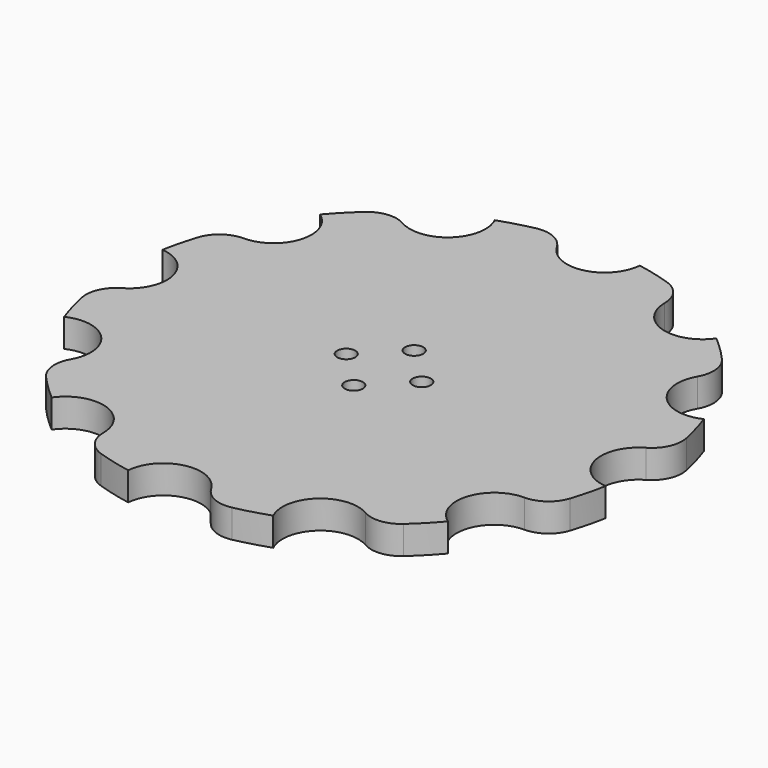
from build123d import *

# Parameters (mm, degrees)
F0_R     = 1.524
F1_DEPTH = 4.7625


with BuildPart() as f1:
    # F0 (on Top) → F1 (new body)
    with BuildSketch(Plane.XY):
        with BuildLine():
            ThreePointArc((-3.772469, 41.053632), (-6.104756, 43.153333), (-9.225692, 43.482055))
            ThreePointArc((-9.225692, 43.482055), (-12.079808, 42.777105), (-14.881082, 41.885032))
            ThreePointArc((-14.881082, 41.885032), (-16.315648, 34.498746), (-23.79387, 33.667254))
            ThreePointArc((-23.79387, 33.667254), (-26.86354, 34.319505), (-29.730711, 33.043718))
            ThreePointArc((-29.730711, 33.043718), (-31.849973, 31.006156), (-33.829911, 28.83296))
            ThreePointArc((-33.829911, 28.83296), (-31.379139, 21.718967), (-37.439723, 17.259762))
            ThreePointArc((-37.439723, 17.259762), (-40.42426, 16.289793), (-42.26941, 13.751344))
            ThreePointArc((-42.26941, 13.751344), (-43.085964, 10.927132), (-43.714043, 8.055121))
            ThreePointArc((-43.714043, 8.055121), (-38.034615, 3.119608), (-41.053632, -3.772469))
            ThreePointArc((-41.053632, -3.772469), (-43.153333, -6.104756), (-43.482055, -9.225692))
            ThreePointArc((-43.482055, -9.225692), (-42.777105, -12.079808), (-41.885032, -14.881082))
            ThreePointArc((-41.885032, -14.881082), (-34.498746, -16.315648), (-33.667254, -23.79387))
            ThreePointArc((-33.667254, -23.79387), (-34.319505, -26.86354), (-33.043718, -29.730711))
            ThreePointArc((-33.043718, -29.730711), (-31.006156, -31.849973), (-28.83296, -33.829911))
            ThreePointArc((-28.83296, -33.829911), (-21.718967, -31.379139), (-17.259762, -37.439723))
            ThreePointArc((-17.259762, -37.439723), (-16.289793, -40.42426), (-13.751344, -42.26941))
            ThreePointArc((-13.751344, -42.26941), (-10.927132, -43.085964), (-8.055121, -43.714043))
            ThreePointArc((-8.055121, -43.714043), (-3.119608, -38.034615), (3.772469, -41.053632))
            ThreePointArc((3.772469, -41.053632), (6.104756, -43.153333), (9.225692, -43.482055))
            ThreePointArc((9.225692, -43.482055), (12.079808, -42.777105), (14.881082, -41.885032))
            ThreePointArc((14.881082, -41.885032), (16.315648, -34.498746), (23.79387, -33.667254))
            ThreePointArc((23.79387, -33.667254), (26.86354, -34.319505), (29.730711, -33.043718))
            ThreePointArc((29.730711, -33.043718), (31.849973, -31.006156), (33.829911, -28.83296))
            ThreePointArc((33.829911, -28.83296), (31.379139, -21.718967), (37.439723, -17.259762))
            ThreePointArc((37.439723, -17.259762), (40.42426, -16.289793), (42.26941, -13.751344))
            ThreePointArc((42.26941, -13.751344), (43.085964, -10.927132), (43.714043, -8.055121))
            ThreePointArc((43.714043, -8.055121), (38.034615, -3.119608), (41.053632, 3.772469))
            ThreePointArc((41.053632, 3.772469), (43.153333, 6.104756), (43.482055, 9.225692))
            ThreePointArc((43.482055, 9.225692), (42.777105, 12.079808), (41.885032, 14.881082))
            ThreePointArc((41.885032, 14.881082), (34.498746, 16.315648), (33.667254, 23.79387))
            ThreePointArc((33.667254, 23.79387), (34.319505, 26.86354), (33.043718, 29.730711))
            ThreePointArc((33.043718, 29.730711), (31.006156, 31.849973), (28.83296, 33.829911))
            ThreePointArc((28.83296, 33.829911), (21.718967, 31.379139), (17.259762, 37.439723))
            ThreePointArc((17.259762, 37.439723), (16.289793, 40.42426), (13.751344, 42.26941))
            ThreePointArc((13.751344, 42.26941), (10.927132, 43.085964), (8.055121, 43.714043))
            ThreePointArc((8.055121, 43.714043), (3.119608, 38.034615), (-3.772469, 41.053632))
        make_face()
        with Locations((0, -6.35)):
            Circle(F0_R, mode=Mode.SUBTRACT)
        with Locations((-6.35, 0)):
            Circle(F0_R, mode=Mode.SUBTRACT)
        with Locations((6.35, 0)):
            Circle(F0_R, mode=Mode.SUBTRACT)
        with Locations((0, 6.35)):
            Circle(F0_R, mode=Mode.SUBTRACT)
    extrude(amount=F1_DEPTH)


solid = f1.part
